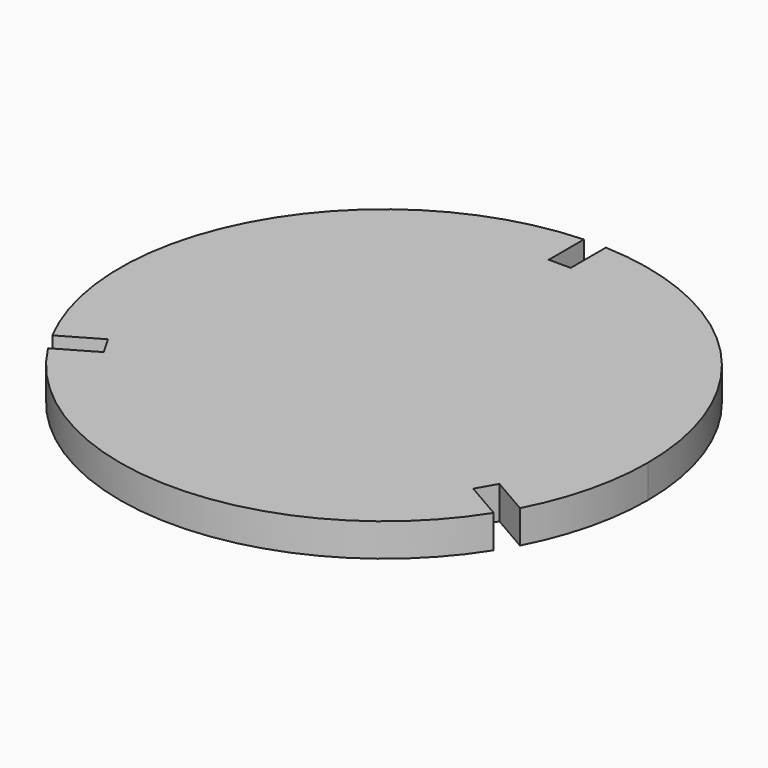
from build123d import *

# Parameters (mm, degrees)
F1_DEPTH = 19.05


with BuildPart() as f1:
    # F0 (on Top) → F1 (new body)
    with BuildSketch(Plane.XY):
        with BuildLine():
            ThreePointArc((135.042654, -70.634564), (147.997062, -36.367977), (152.4, 0))
            ThreePointArc((152.4, 0), (109.985226, 105.494123), (6.35, 152.267651))
            Line((6.35, 152.267651), (6.35, 126.867651))
            Line((6.35, 126.867651), (-6.35, 126.867651))
            Line((-6.35, 126.867651), (-6.35, 152.267651))
            ThreePointArc((-6.35, 152.267651), (-131.982272, 76.2), (-135.042654, -70.634564))
            Line((-135.042654, -70.634564), (-113.045609, -57.934564))
            Line((-113.045609, -57.934564), (-106.695609, -68.933087))
            Line((-106.695609, -68.933087), (-128.692654, -81.633087))
            ThreePointArc((-128.692654, -81.633087), (0, -152.4), (128.692654, -81.633087))
            Line((128.692654, -81.633087), (106.695609, -68.933087))
            Line((106.695609, -68.933087), (113.045609, -57.934564))
            Line((113.045609, -57.934564), (135.042654, -70.634564))
        make_face()
    extrude(amount=F1_DEPTH)


solid = f1.part
